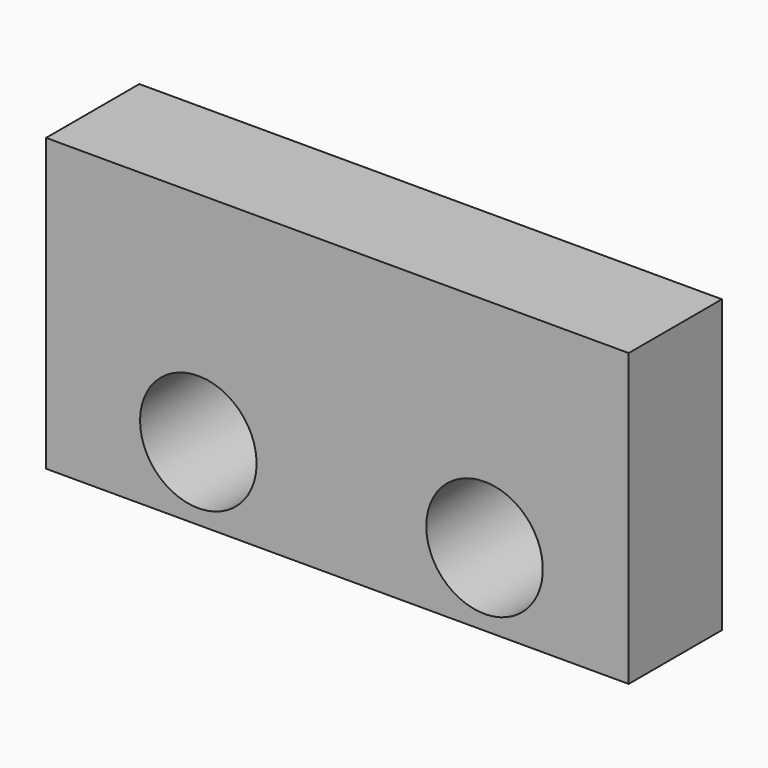
from build123d import *

# Parameters (mm, degrees)
F1_DEPTH = 4
F3_D     = 4
F3_DEPTH = 20


with BuildPart() as f1:
    # F0 (on Front) → F1 (new body)
    with BuildSketch(Plane.XZ):
        Polygon((-10, -3.273288), (-10, -5), (0, -5), (10, -5), (10, -3.273288), (10, 5), (-10, 5), align=None)
    extrude(amount=-F1_DEPTH)

    # F3
    with Locations(Plane.XZ):
        with Locations((-4.774162, -2.493479), (5.052121, -2.493479)):
            Hole(F3_D / 2, depth=F3_DEPTH)


solid = f1.part
